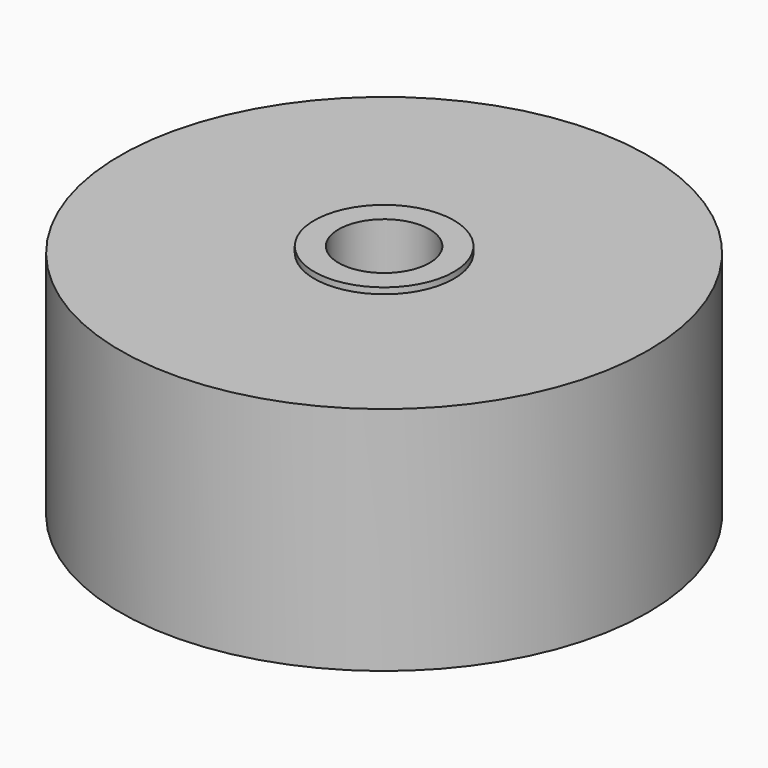
from build123d import *

# Parameters (mm, degrees)
SKETCH_R     = 21.75
PAD_DEPTH    = 19
SKETCH001_R  = 5.75
PAD001_DEPTH = 0.5
SKETCH002_R  = 3.75
POCKET_DEPTH = 19.501


with BuildPart() as part:
    # Sketch → Pad (new body)
    with BuildSketch(Plane.XY):
        Circle(SKETCH_R)
    extrude(amount=PAD_DEPTH)

    # Sketch001 (on Face3 of Pad) → Pad001 (join)
    with BuildSketch(Plane.XY.offset(19)):
        Circle(SKETCH001_R)
    extrude(amount=PAD001_DEPTH)

    # Sketch002 (on Face5 of Pad001) → Pocket (cut, through all)
    with BuildSketch(Plane.XY.offset(19.5)):
        Circle(SKETCH002_R)
    extrude(amount=-POCKET_DEPTH, mode=Mode.SUBTRACT)


solid = part.part
